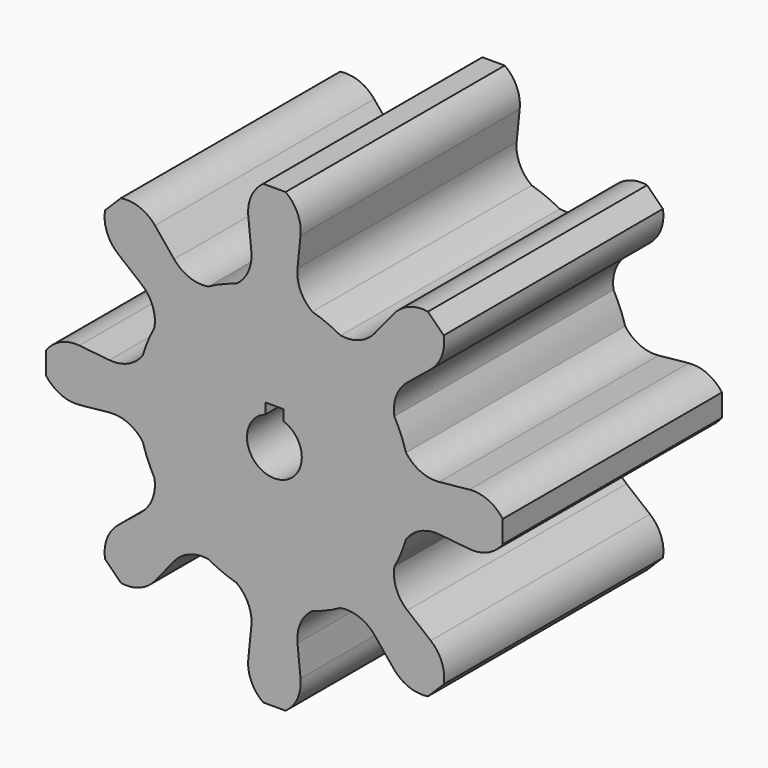
from build123d import *

# Parameters (mm, degrees)
F1_DEPTH = 30
F3_DEPTH = 30.001


with BuildPart() as f1:
    # F0 (on Front) → F1 (new body)
    with BuildSketch(Plane.XZ):
        with BuildLine():
            ThreePointArc((-14.555619, 10.982389), (-13.34453, 9.30297), (-13.135405, 7.243005))
            ThreePointArc((-13.135405, 7.243005), (-13.858193, 5.740251), (-14.409712, 4.166556))
            ThreePointArc((-14.409712, 4.166556), (-16.0142, 2.857814), (-18.058099, 2.526655))
            Line((-18.058099, 2.526655), (-21.351614, 2.861007))
            ThreePointArc((-21.351614, 2.861007), (-23.395512, 2.529847), (-25, 1.221105))
            Line((-25, 1.221105), (-25, -1.221105))
            ThreePointArc((-25, -1.221105), (-23.395512, -2.529847), (-21.351614, -2.861007))
            Line((-21.351614, -2.861007), (-18.058099, -2.526655))
            ThreePointArc((-18.058099, -2.526655), (-16.0142, -2.857814), (-14.409712, -4.166556))
            ThreePointArc((-14.409712, -4.166556), (-13.858193, -5.740251), (-13.135405, -7.243005))
            ThreePointArc((-13.135405, -7.243005), (-13.34453, -9.30297), (-14.555619, -10.982389))
            Line((-14.555619, -10.982389), (-17.120908, -13.074834))
            ThreePointArc((-17.120908, -13.074834), (-18.331997, -14.754253), (-18.541121, -16.814218))
            Line((-18.541121, -16.814218), (-16.814218, -18.541121))
            ThreePointArc((-16.814218, -18.541121), (-14.754253, -18.331997), (-13.074834, -17.120908))
            Line((-13.074834, -17.120908), (-10.982389, -14.555619))
            ThreePointArc((-10.982389, -14.555619), (-9.30297, -13.34453), (-7.243005, -13.135405))
            ThreePointArc((-7.243005, -13.135405), (-5.740251, -13.858193), (-4.166556, -14.409712))
            ThreePointArc((-4.166556, -14.409712), (-2.857814, -16.0142), (-2.526655, -18.058099))
            Line((-2.526655, -18.058099), (-2.861007, -21.351614))
            ThreePointArc((-2.861007, -21.351614), (-2.529847, -23.395512), (-1.221105, -25))
            Line((-1.221105, -25), (1.221105, -25))
            ThreePointArc((1.221105, -25), (2.529847, -23.395512), (2.861007, -21.351614))
            Line((2.861007, -21.351614), (2.526655, -18.058099))
            ThreePointArc((2.526655, -18.058099), (2.857814, -16.0142), (4.166556, -14.409712))
            ThreePointArc((4.166556, -14.409712), (5.740251, -13.858193), (7.243005, -13.135405))
            ThreePointArc((7.243005, -13.135405), (9.30297, -13.34453), (10.982389, -14.555619))
            Line((10.982389, -14.555619), (13.074834, -17.120908))
            ThreePointArc((13.074834, -17.120908), (14.754253, -18.331997), (16.814218, -18.541121))
            Line((16.814218, -18.541121), (18.541121, -16.814218))
            ThreePointArc((18.541121, -16.814218), (18.331997, -14.754253), (17.120908, -13.074834))
            Line((17.120908, -13.074834), (14.555619, -10.982389))
            ThreePointArc((14.555619, -10.982389), (13.34453, -9.30297), (13.135405, -7.243005))
            ThreePointArc((13.135405, -7.243005), (13.858193, -5.740251), (14.409712, -4.166556))
            ThreePointArc((14.409712, -4.166556), (16.0142, -2.857814), (18.058099, -2.526655))
            Line((18.058099, -2.526655), (21.351614, -2.861007))
            ThreePointArc((21.351614, -2.861007), (23.395512, -2.529847), (25, -1.221105))
            Line((25, -1.221105), (25, 1.221105))
            ThreePointArc((25, 1.221105), (23.395512, 2.529847), (21.351614, 2.861007))
            Line((21.351614, 2.861007), (18.058099, 2.526655))
            ThreePointArc((18.058099, 2.526655), (16.0142, 2.857814), (14.409712, 4.166556))
            ThreePointArc((14.409712, 4.166556), (13.858193, 5.740251), (13.135405, 7.243005))
            ThreePointArc((13.135405, 7.243005), (13.34453, 9.30297), (14.555619, 10.982389))
            Line((14.555619, 10.982389), (17.120908, 13.074834))
            ThreePointArc((17.120908, 13.074834), (18.331997, 14.754253), (18.541121, 16.814218))
            Line((18.541121, 16.814218), (16.814218, 18.541121))
            ThreePointArc((16.814218, 18.541121), (14.754253, 18.331997), (13.074834, 17.120908))
            Line((13.074834, 17.120908), (10.982389, 14.555619))
            ThreePointArc((10.982389, 14.555619), (9.30297, 13.34453), (7.243005, 13.135405))
            ThreePointArc((7.243005, 13.135405), (5.740251, 13.858193), (4.166556, 14.409712))
            ThreePointArc((4.166556, 14.409712), (2.857814, 16.0142), (2.526655, 18.058099))
            Line((2.526655, 18.058099), (2.861007, 21.351614))
            ThreePointArc((2.861007, 21.351614), (2.529847, 23.395512), (1.221105, 25))
            Line((1.221105, 25), (-1.221105, 25))
            ThreePointArc((-1.221105, 25), (-2.529847, 23.395512), (-2.861007, 21.351614))
            Line((-2.861007, 21.351614), (-2.526655, 18.058099))
            ThreePointArc((-2.526655, 18.058099), (-2.857814, 16.0142), (-4.166556, 14.409712))
            ThreePointArc((-4.166556, 14.409712), (-5.740251, 13.858193), (-7.243005, 13.135405))
            ThreePointArc((-7.243005, 13.135405), (-9.30297, 13.34453), (-10.982389, 14.555619))
            Line((-10.982389, 14.555619), (-13.074834, 17.120908))
            ThreePointArc((-13.074834, 17.120908), (-14.754253, 18.331997), (-16.814218, 18.541121))
            Line((-16.814218, 18.541121), (-18.541121, 16.814218))
            ThreePointArc((-18.541121, 16.814218), (-18.331997, 14.754253), (-17.120908, 13.074834))
            Line((-17.120908, 13.074834), (-14.555619, 10.982389))
        make_face()
    extrude(amount=F1_DEPTH)

    # F2 (on face) → F3 (cut, through all)
    with BuildSketch(Plane.XZ.offset(30)):
        with BuildLine():
            Line((-1, 4), (-1, 2.828427))
            ThreePointArc((-1, 2.828427), (0, -3), (1, 2.828427))
            Line((1, 2.828427), (1, 4))
            Line((1, 4), (-1, 4))
        make_face()
    extrude(amount=-F3_DEPTH, mode=Mode.SUBTRACT)


solid = f1.part
